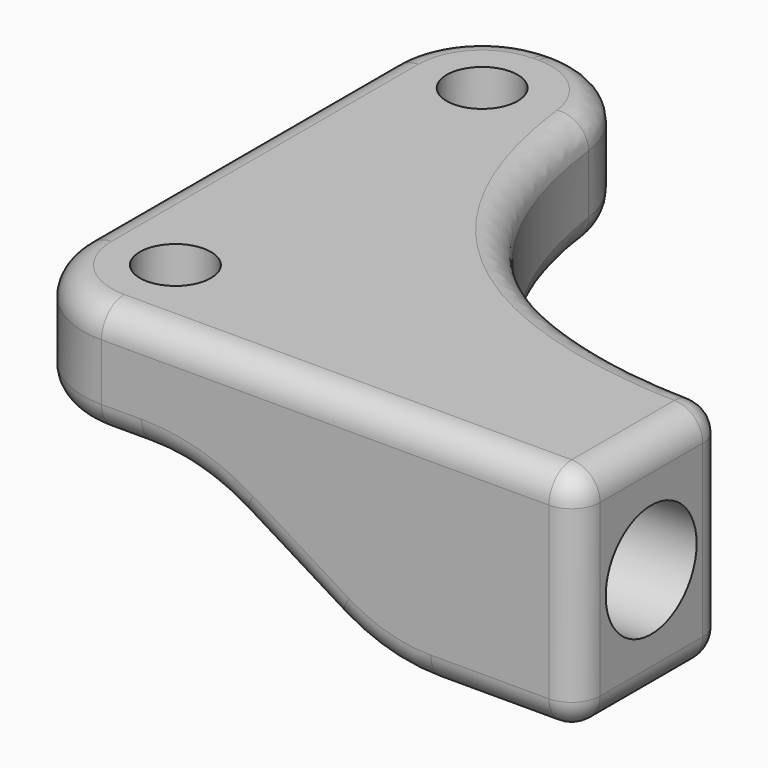
from build123d import *

# Parameters (mm, degrees)
SKETCH_R        = 1.25
PAD_DEPTH       = 8
SKETCH001_R     = 2
POCKET_DEPTH    = 10
POCKET001_DEPTH = 20
FILLET_R        = 6.5
FILLET001_R     = 3.25
FILLET002_R     = 1


with BuildPart() as part:
    # Sketch → Pad (new body)
    with BuildSketch(Plane.XY):
        with BuildLine():
            Line((6.5, 20), (0, 20))
            Line((0, 20), (0, 0))
            Line((0, 0), (20, 0))
            Line((20, 0), (20, 6.5))
            add(Edge.make_bspline(
                [(6.5, 20), (6.5, 6.5), (20, 6.5)],
                knots=[0, 0, 0, 1, 1, 1], degree=2))
        make_face()
        with Locations((3.25, 16.75)):
            Circle(SKETCH_R, mode=Mode.SUBTRACT)
        with Locations((3.25, 3.25)):
            Circle(SKETCH_R, mode=Mode.SUBTRACT)
    extrude(amount=PAD_DEPTH)

    # Sketch001 (on Face4 of Pad) → Pocket (cut)
    with BuildSketch(Plane.YZ.offset(20)):
        with Locations((3.25, 4)):
            Circle(SKETCH001_R)
    extrude(amount=-POCKET_DEPTH, mode=Mode.SUBTRACT)

    # Sketch002 (on Face7 of Pocket) → Pocket001 (cut)
    with BuildSketch(Plane.XZ):
        Polygon((0, 0), (0, 4), (6.5, 4), (13, 0), align=None)
    extrude(amount=-POCKET001_DEPTH, mode=Mode.SUBTRACT)

    # Fillet
    fillet_edges = [part.edges().sort_by_distance(p)[0] for p in [
        (13, 3.882503, 0),
        (6.5, 10, 4),
    ]]
    fillet(fillet_edges, radius=FILLET_R)

    # Fillet001
    fillet001_edges = [part.edges().sort_by_distance(p)[0] for p in [
        (0, 20, 6),
        (6.5, 20, 5.867099),
        (0, 0, 6),
    ]]
    fillet(fillet001_edges, radius=FILLET001_R)

    # Fillet002
    fillet002_edges = [part.edges().sort_by_distance(p)[0] for p in [
        (20, 6.5, 4),
        (20, 3.25, 0),
        (20, 0, 4),
        (20, 3.25, 8),
        (10.954286, 8.945209, 8),
        (11.625, 0, 8),
        (17.419887, 0, 0),
        (17.398903, 6.639044, 0),
    ]]
    fillet(fillet002_edges, radius=FILLET002_R)


solid = part.part
